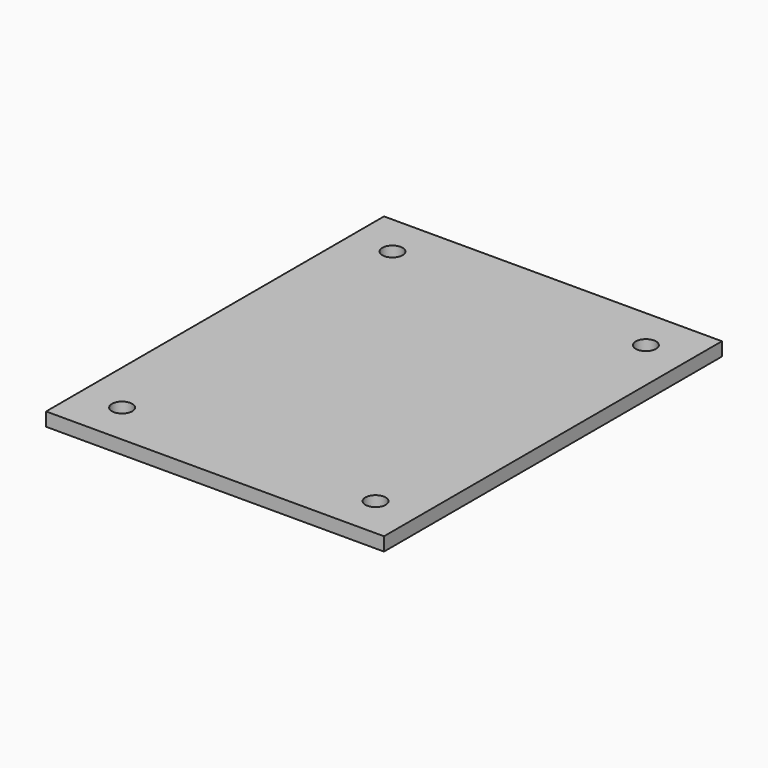
from build123d import *

# Parameters (mm, degrees)
F0_W     = 200
F0_H     = 250
F1_DEPTH = 8
F3_D     = 12


with BuildPart() as f1:
    # F0 (on Top) → F1 (new body)
    with BuildSketch(Plane.XY):
        with Locations((100, 125)):
            Rectangle(F0_W, F0_H)
    extrude(amount=F1_DEPTH)

    # F3 (through all)
    with Locations(Plane.XY.offset(8)):
        with Locations((25, 225), (25, 25), (175, 225), (175, 225), (175, 25)):
            Hole(F3_D / 2)


solid = f1.part
